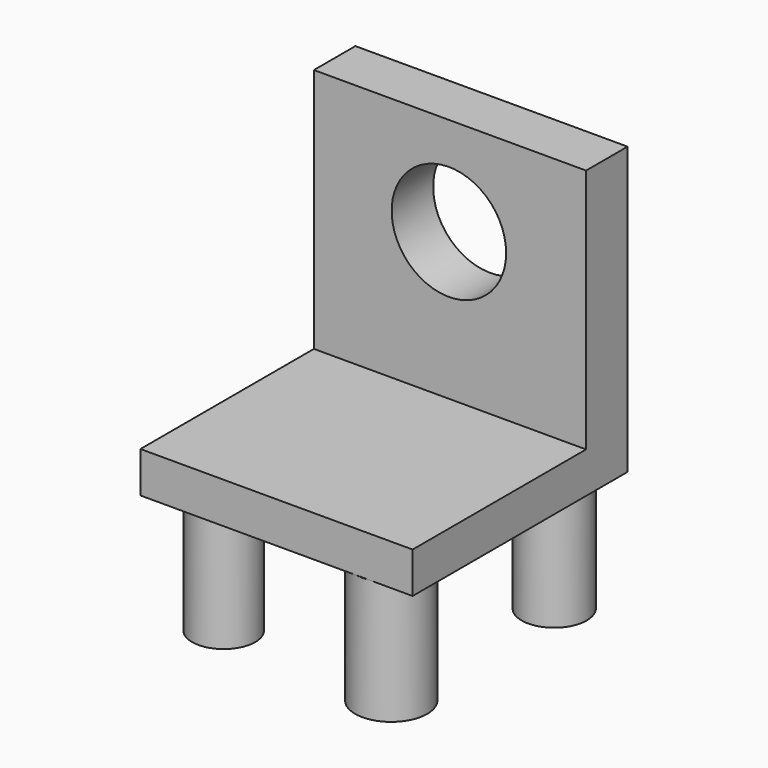
from build123d import *

# Parameters (mm, degrees)
F0_R     = 22.3722727972
F1_DEPTH = 76.2
F0_R_2   = 20.1981142989
F0_R_3   = 21.3962537525
F0_R_4   = 19.571730167
F2_W     = 168.9652204514
F2_H     = 166.7985022068
F3_DEPTH = 25.4
F4_W     = 168.9652204514
F4_H     = 32.19390288
F5_DEPTH = 152.4
F6_R     = 35.5303474838
F7_DEPTH = 101.6


with BuildPart() as f1:
    # F0 (on Top) → F1 (new body)
    with BuildSketch(Plane.XY):
        with Locations((54.2138777673, -66.7263194919)):
            Circle(F0_R)
    extrude(amount=F1_DEPTH)


with BuildPart() as f1b:
    # F0 (on Top) → F1, piece 2 (new body)
    with BuildSketch(Plane.XY):
        with Locations((55.5144324899, 58.139115572)):
            Circle(F0_R_2)
    extrude(amount=F1_DEPTH)


with BuildPart() as f1c:
    # F0 (on Top) → F1, piece 3 (new body)
    with BuildSketch(Plane.XY):
        with Locations((-54.8070818186, 53.7458285689)):
            Circle(F0_R_3)
    extrude(amount=F1_DEPTH)


with BuildPart() as f1d:
    # F0 (on Top) → F1, piece 4 (new body)
    with BuildSketch(Plane.XY):
        with Locations((-55.1961921155, -59.9394589663)):
            Circle(F0_R_4)
    extrude(amount=F1_DEPTH)


with BuildPart() as f3:
    # F2 (on face) → F3 (new body)
    with BuildSketch(Plane.XY.offset(76.2)):
        with Locations((0.6749108434, -5.386762321)):
            Rectangle(F2_W, F2_H)
    extrude(amount=F3_DEPTH)

    # F4 (on face) → F5 (join)
    with BuildSketch(Plane.XY.offset(101.6)):
        with Locations((0.6749108434, 61.9155373424)):
            Rectangle(F4_W, F4_H)
    extrude(amount=F5_DEPTH)

    # F6 (on face) → F7 (cut)
    with BuildSketch(Plane.XZ.offset(-45.8185859025)):
        with Locations((0, 192.7815526724)):
            Circle(F6_R)
    extrude(amount=-F7_DEPTH, mode=Mode.SUBTRACT)


solid = Compound([f1.part, f1b.part, f1c.part, f1d.part, f3.part])
